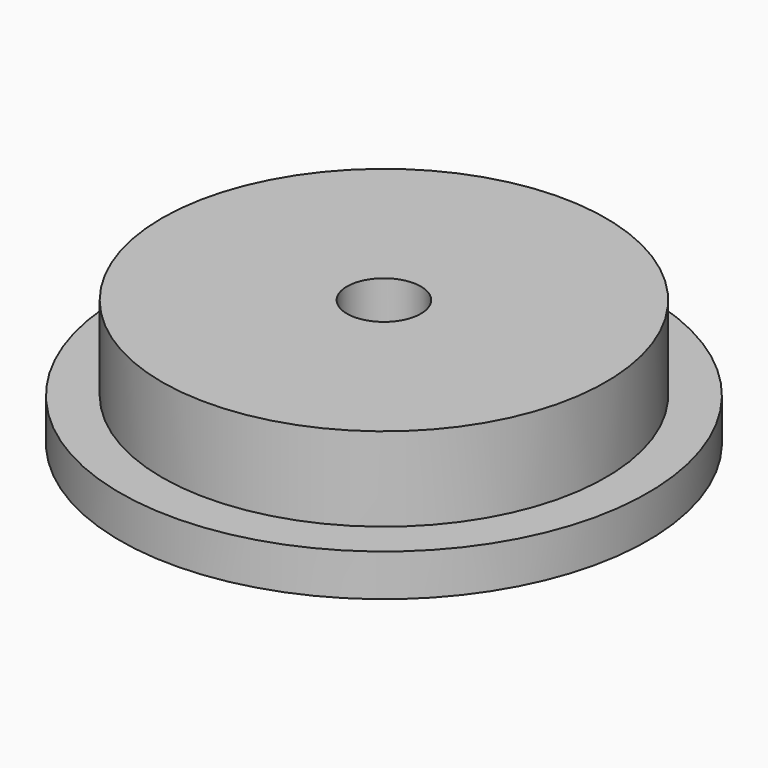
from build123d import *

# Parameters (mm, degrees)
F3_D = 8.8


with BuildPart() as f1:
    # F0 (on Front) → F1 (revolve)
    with BuildSketch(Plane.XZ):
        Polygon((-31.44, 0), (0, 0), (0, 15), (-26.44, 15), (-26.44, 5), (-31.44, 5), align=None)
    revolve(axis=Axis((0, 0, 7.5), (0, 0, -1)))

    # F3 (through all)
    with Locations(Plane(origin=(0, 0, 0), x_dir=(1, 0, 0), z_dir=(0, 0, -1))):
        with Locations((0, 0)):
            Hole(F3_D / 2)


solid = f1.part
